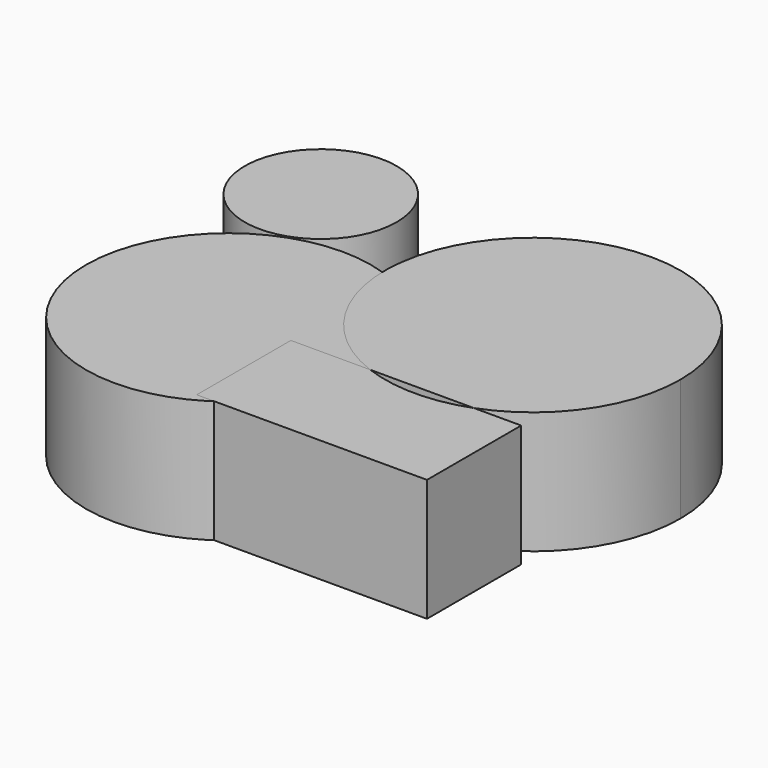
from build123d import *

# Parameters (mm, degrees)
F0_R     = 29.5705775905
F3_DEPTH = 25.4
F1_R     = 15.7819327394


with BuildPart() as f3:
    # F0 (on Top) → F3 (new body)
    with BuildSketch(Plane.XY):
        Circle(F0_R)
    extrude(amount=F3_DEPTH)


with BuildPart() as f3b:
    # F2 (on Top) → F3, piece 2 (new body)
    with BuildSketch(Plane.XY):
        with BuildLine():
            ThreePointArc((50.9735147705, 0), (40.2053631842, -1.9524445325), (29.4372115979, 0))
            Line((29.4372115979, 0), (12.9565428942, 0))
            Line((12.9565428942, 0), (12.9565428942, -24.4437903166))
            Line((12.9565428942, -24.4437903166), (60.7755407691, -24.4437903166))
            Line((60.7755407691, -24.4437903166), (60.7755407691, 0))
            Line((60.7755407691, 0), (50.9735147705, 0))
        make_face()
    extrude(amount=F3_DEPTH)


with BuildPart() as f3c:
    # F2 (on Top) → F3, piece 3 (new body)
    with BuildSketch(Plane.XY):
        with BuildLine():
            ThreePointArc((50.9735147705, 0), (65.4139765628, 11.2478830466), (70.8759216159, 28.7181138992))
            ThreePointArc((70.8759216159, 28.7181138992), (22.7351323316, 53.9267272778), (29.4372115979, 0))
            Line((29.4372115979, 0), (50.9735147705, 0))
        make_face()
    extrude(amount=F3_DEPTH)


with BuildPart() as f3d:
    # F1 (on Top) → F3, piece 4 (new body)
    with BuildSketch(Plane.XY):
        with Locations((-15.3608517721, 43.1439578533)):
            Circle(F1_R)
    extrude(amount=F3_DEPTH)


solid = Compound([f3.part, f3b.part, f3c.part, f3d.part])
